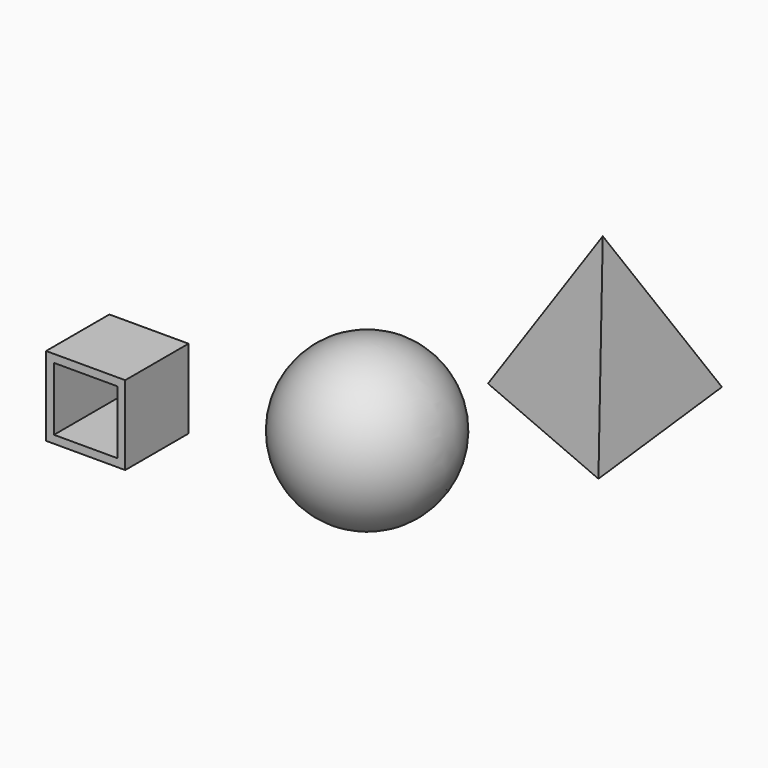
from build123d import *

# Parameters (mm, degrees)
F6_W     = 25
F6_H     = 25
F7_DEPTH = 25
F8_T     = -2.5


with BuildPart() as f1:
    # F0 (on Front) → F1 (revolve)
    with BuildSketch(Plane.XZ):
        with BuildLine():
            Line((0, 25), (0, -25))
            ThreePointArc((0, -25), (25, 0), (0, 25))
        make_face()
    revolve(axis=Axis((0, 0, 0), (0, 0, -1)))


with BuildPart() as f5:
    # F2 (on Top) → F5 section 0
    with BuildSketch(Plane.XY, mode=Mode.PRIVATE) as f5_s0:
        Polygon((60.6568771656, 15.5379695697), (53.8117700855, 72.8657799447), (7.5869834974, 38.2738381342), align=None)
    loft([f5_s0.sketch, Vertex(40.5203066766, 42.4208827317, 50)])


with BuildPart() as f7:
    # F6 (on Top) → F7 (new body)
    with BuildSketch(Plane.XY):
        with Locations((-45.9155738354, -41.2495669603)):
            Rectangle(F6_W, F6_H)
    extrude(amount=F7_DEPTH)

    # F8
    f8_openings = [f7.faces().sort_by_distance(p)[0] for p in [
        (-45.915574, -53.749567, 12.5),
        (-45.915574, -28.749567, 12.5),
    ]]
    offset(amount=F8_T, openings=f8_openings)


solid = Compound([f1.part, f5.part, f7.part])
